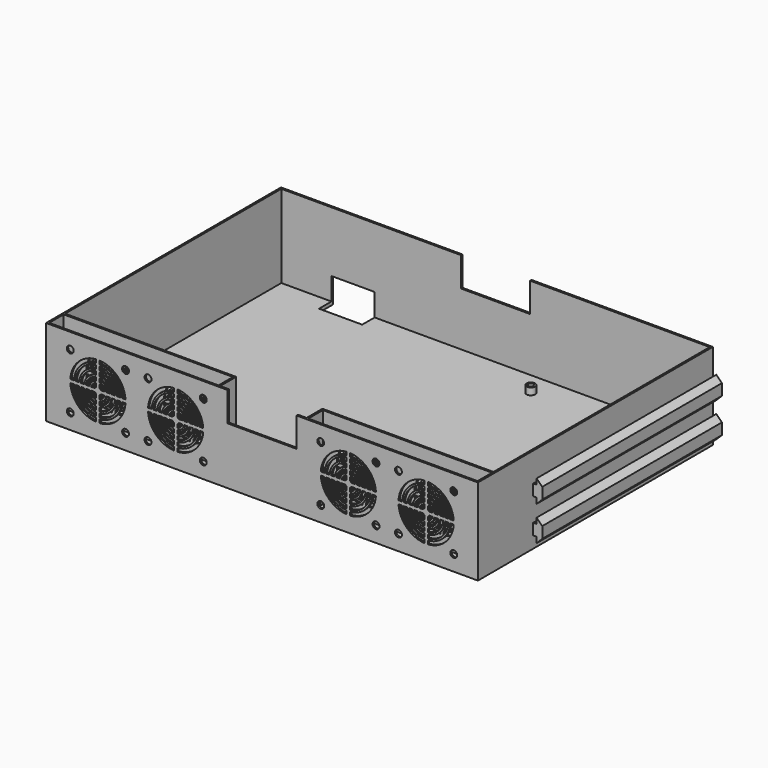
from build123d import *

# Parameters (mm, degrees)
SKETCH010_W     = 250
SKETCH010_H     = 170
PAD_DEPTH       = 2
SKETCH011_W     = 250
SKETCH011_H     = 170
SKETCH011_W_2   = 98
SKETCH011_H_2   = 10.5
PAD001_DEPTH    = 50
PAD002_DEPTH    = 130
SKETCH018_W     = 40
SKETCH018_H     = 17
POCKET_DEPTH    = 170.001
SKETCH019_R     = 2
POCKET001_DEPTH = 13.5
SKETCH020_W     = 8
SKETCH020_H     = 10
POCKET002_DEPTH = 1
SKETCH016_R     = 2.5
PAD003_DEPTH    = 4
SKETCH017_R     = 1.5
POCKET003_DEPTH = 6.001
SKETCH021_W     = 25
SKETCH021_H     = 15
POCKET004_DEPTH = 10


with BuildPart() as part:
    # Sketch010 → Pad (new body)
    with BuildSketch(Plane.XY):
        Rectangle(SKETCH010_W, SKETCH010_H)
    extrude(amount=PAD_DEPTH)

    # Sketch011 → Pad001 (join)
    with BuildSketch(Plane(origin=(0, 0, 0), x_dir=(1, 0, 0), z_dir=(0, 0, -1))):
        Rectangle(SKETCH011_W, SKETCH011_H)
        with Locations((-75, 78.75)):
            Rectangle(SKETCH011_W_2, SKETCH011_H_2, mode=Mode.SUBTRACT)
        with Locations((75, 78.75)):
            Rectangle(SKETCH011_W_2, SKETCH011_H_2, mode=Mode.SUBTRACT)
        Polygon((-124, 72.5), (-25, 72.5), (-25, 84), (25, 84), (25, 72.5), (124, 72.5), (124, -84), (-124, -84), align=None, mode=Mode.SUBTRACT)
    extrude(amount=-PAD001_DEPTH)

    # Sketch → Pad002 (join)
    with BuildSketch(Plane(origin=(0, 85, 0), x_dir=(-1, 0, 0), z_dir=(0, 1, 0))):
        Polygon((-125, 13.25), (-127, 13.25), (-127, 16.5), (-130.25, 13.25), (-130.25, 6.75), (-127, 3.5), (-127, 6.75), (-125, 6.75), align=None)
        Polygon((-125, 33.25), (-127, 33.25), (-127, 36.5), (-130.25, 33.25), (-130.25, 26.75), (-127, 23.5), (-127, 26.75), (-125, 26.75), align=None)
    pad002 = extrude(amount=-PAD002_DEPTH)

    # Mirrored: Pad002 across YZ
    add(pad002.mirror(Plane.YZ))

    # Sketch018 (on Face5 of Mirrored) → Pocket (cut, through all)
    with BuildSketch(Plane.XZ.offset(85)):
        with Locations((0, 41.5)):
            Rectangle(SKETCH018_W, SKETCH018_H)
    extrude(amount=-POCKET_DEPTH, mode=Mode.SUBTRACT)

    # Sketch019 → Pocket001 (cut)
    with BuildSketch(Plane.XZ.offset(85)):
        with Locations((79, 41)):
            Circle(SKETCH019_R)
        with Locations((111, 41)):
            Circle(SKETCH019_R)
        with Locations((111, 9)):
            Circle(SKETCH019_R)
        with Locations((79, 9)):
            Circle(SKETCH019_R)
        with Locations((34, 41)):
            Circle(SKETCH019_R)
        with Locations((66, 41)):
            Circle(SKETCH019_R)
        with Locations((66, 9)):
            Circle(SKETCH019_R)
        with Locations((34, 9)):
            Circle(SKETCH019_R)
        with BuildLine():
            ThreePointArc((79.031281, 24), (83.686292, 13.686292), (94, 9.031281))
            Line((94, 9.031281), (94, 11.03576))
            ThreePointArc((81.03576, 24), (85.100505, 15.100505), (94, 11.03576))
            Line((79.031281, 24), (81.03576, 24))
        make_face()
        with BuildLine():
            ThreePointArc((108.96424, 26), (104.899495, 34.899495), (96, 38.96424))
            Line((96, 40.968719), (96, 38.96424))
            ThreePointArc((110.968719, 26), (106.313708, 36.313708), (96, 40.968719))
            Line((108.96424, 26), (110.968719, 26))
        make_face()
        with BuildLine():
            Line((79.031281, 26), (81.03576, 26))
            ThreePointArc((94, 38.96424), (85.100505, 34.899495), (81.03576, 26))
            Line((94, 38.96424), (94, 40.968719))
            ThreePointArc((94, 40.968719), (83.686292, 36.313708), (79.031281, 26))
        make_face()
        with BuildLine():
            Line((108.96424, 24), (110.968719, 24))
            ThreePointArc((96, 9.031281), (106.313708, 13.686292), (110.968719, 24))
            Line((96, 11.03576), (96, 9.031281))
            ThreePointArc((96, 11.03576), (104.899495, 15.100505), (108.96424, 24))
        make_face()
        with BuildLine():
            ThreePointArc((94, 37.961481), (85.807612, 34.192388), (82.038519, 26))
            Line((82.038519, 26), (84.045549, 26))
            ThreePointArc((94, 35.954451), (87.221825, 32.778175), (84.045549, 26))
            Line((94, 35.954451), (94, 37.961481))
        make_face()
        with BuildLine():
            ThreePointArc((107.961481, 26), (104.192388, 34.192388), (96, 37.961481))
            Line((96, 35.954451), (96, 37.961481))
            ThreePointArc((105.954451, 26), (102.778175, 32.778175), (96, 35.954451))
            Line((105.954451, 26), (107.961481, 26))
        make_face()
        with BuildLine():
            ThreePointArc((96, 14.045549), (102.778175, 17.221825), (105.954451, 24))
            Line((105.954451, 24), (107.961481, 24))
            ThreePointArc((96, 12.038519), (104.192388, 15.807612), (107.961481, 24))
            Line((96, 12.038519), (96, 14.045549))
        make_face()
        with BuildLine():
            ThreePointArc((82.038519, 24), (85.807612, 15.807612), (94, 12.038519))
            Line((94, 12.038519), (94, 14.045549))
            ThreePointArc((84.045549, 24), (87.221825, 17.221825), (94, 14.045549))
            Line((82.038519, 24), (84.045549, 24))
        make_face()
        with BuildLine():
            ThreePointArc((94, 34.949874), (87.928932, 32.071068), (85.050126, 26))
            Line((85.050126, 26), (87.062746, 26))
            ThreePointArc((94, 32.937254), (89.343146, 30.656854), (87.062746, 26))
            Line((94, 32.937254), (94, 34.949874))
        make_face()
        with BuildLine():
            ThreePointArc((102.937254, 26), (100.656854, 30.656854), (96, 32.937254))
            Line((96, 34.949874), (96, 32.937254))
            ThreePointArc((104.949874, 26), (102.071068, 32.071068), (96, 34.949874))
            Line((102.937254, 26), (104.949874, 26))
        make_face()
        with BuildLine():
            ThreePointArc((96, 15.050126), (102.071068, 17.928932), (104.949874, 24))
            Line((102.937254, 24), (104.949874, 24))
            ThreePointArc((96, 17.062746), (100.656854, 19.343146), (102.937254, 24))
            Line((96, 15.050126), (96, 17.062746))
        make_face()
        with BuildLine():
            ThreePointArc((85.050126, 24), (87.928932, 17.928932), (94, 15.050126))
            Line((94, 15.050126), (94, 17.062746))
            ThreePointArc((87.062746, 24), (89.343146, 19.343146), (94, 17.062746))
            Line((85.050126, 24), (87.062746, 24))
        make_face()
        with BuildLine():
            ThreePointArc((94, 31.928203), (90.050253, 29.949747), (88.071797, 26))
            Line((88.071797, 26), (90.101021, 26))
            ThreePointArc((94, 29.898979), (91.464466, 28.535534), (90.101021, 26))
            Line((94, 29.898979), (94, 31.928203))
        make_face()
        with BuildLine():
            ThreePointArc((96, 20.101021), (98.535534, 21.464466), (99.898979, 24))
            Line((99.898979, 24), (101.928203, 24))
            ThreePointArc((96, 18.071797), (99.949747, 20.050253), (101.928203, 24))
            Line((96, 18.071797), (96, 20.101021))
        make_face()
        with BuildLine():
            ThreePointArc((88.071797, 24), (90.050253, 20.050253), (94, 18.071797))
            Line((94, 18.071797), (94, 20.101021))
            ThreePointArc((90.101021, 24), (91.464466, 21.464466), (94, 20.101021))
            Line((88.071797, 24), (90.101021, 24))
        make_face()
        with BuildLine():
            ThreePointArc((99.898979, 26), (98.535534, 28.535534), (96, 29.898979))
            Line((96, 31.928203), (96, 29.898979))
            ThreePointArc((101.928203, 26), (99.949747, 29.949747), (96, 31.928203))
            Line((99.898979, 26), (101.928203, 26))
        make_face()
        with BuildLine():
            ThreePointArc((94, 28.872983), (92.171573, 27.828427), (91.127017, 26))
            Line((91.127017, 26), (93.267949, 26))
            ThreePointArc((94, 26.732051), (93.585786, 26.414214), (93.267949, 26))
            Line((94, 26.732051), (94, 28.872983))
        make_face()
        with BuildLine():
            ThreePointArc((91.127017, 24), (92.171573, 22.171573), (94, 21.127017))
            Line((94, 23.267949), (94, 21.127017))
            ThreePointArc((93.267949, 24), (93.585786, 23.585786), (94, 23.267949))
            Line((91.127017, 24), (93.267949, 24))
        make_face()
        with BuildLine():
            ThreePointArc((96, 21.127017), (97.828427, 22.171573), (98.872983, 24))
            Line((98.872983, 24), (96.732051, 24))
            ThreePointArc((96, 23.267949), (96.414214, 23.585786), (96.732051, 24))
            Line((96, 21.127017), (96, 23.267949))
        make_face()
        with BuildLine():
            ThreePointArc((98.872983, 26), (97.828427, 27.828427), (96, 28.872983))
            Line((96, 28.872983), (96, 26.732051))
            ThreePointArc((96.732051, 26), (96.414214, 26.414214), (96, 26.732051))
            Line((96.732051, 26), (98.872983, 26))
        make_face()
        with BuildLine():
            ThreePointArc((34.031281, 24), (38.686292, 13.686292), (49, 9.031281))
            Line((49, 9.031281), (49, 11.03576))
            ThreePointArc((36.03576, 24), (40.100505, 15.100505), (49, 11.03576))
            Line((34.031281, 24), (36.03576, 24))
        make_face()
        with BuildLine():
            ThreePointArc((63.96424, 26), (59.899495, 34.899495), (51, 38.96424))
            Line((51, 40.968719), (51, 38.96424))
            ThreePointArc((65.968719, 26), (61.313708, 36.313708), (51, 40.968719))
            Line((63.96424, 26), (65.968719, 26))
        make_face()
        with BuildLine():
            Line((34.031281, 26), (36.03576, 26))
            ThreePointArc((49, 38.96424), (40.100505, 34.899495), (36.03576, 26))
            Line((49, 38.96424), (49, 40.968719))
            ThreePointArc((49, 40.968719), (38.686292, 36.313708), (34.031281, 26))
        make_face()
        with BuildLine():
            Line((63.96424, 24), (65.968719, 24))
            ThreePointArc((51, 9.031281), (61.313708, 13.686292), (65.968719, 24))
            Line((51, 11.03576), (51, 9.031281))
            ThreePointArc((51, 11.03576), (59.899495, 15.100505), (63.96424, 24))
        make_face()
        with BuildLine():
            ThreePointArc((49, 37.961481), (40.807612, 34.192388), (37.038519, 26))
            Line((37.038519, 26), (39.045549, 26))
            ThreePointArc((49, 35.954451), (42.221825, 32.778175), (39.045549, 26))
            Line((49, 35.954451), (49, 37.961481))
        make_face()
        with BuildLine():
            ThreePointArc((62.961481, 26), (59.192388, 34.192388), (51, 37.961481))
            Line((51, 35.954451), (51, 37.961481))
            ThreePointArc((60.954451, 26), (57.778175, 32.778175), (51, 35.954451))
            Line((60.954451, 26), (62.961481, 26))
        make_face()
        with BuildLine():
            ThreePointArc((51, 14.045549), (57.778175, 17.221825), (60.954451, 24))
            Line((60.954451, 24), (62.961481, 24))
            ThreePointArc((51, 12.038519), (59.192388, 15.807612), (62.961481, 24))
            Line((51, 12.038519), (51, 14.045549))
        make_face()
        with BuildLine():
            ThreePointArc((37.038519, 24), (40.807612, 15.807612), (49, 12.038519))
            Line((49, 12.038519), (49, 14.045549))
            ThreePointArc((39.045549, 24), (42.221825, 17.221825), (49, 14.045549))
            Line((37.038519, 24), (39.045549, 24))
        make_face()
        with BuildLine():
            ThreePointArc((49, 34.949874), (42.928932, 32.071068), (40.050126, 26))
            Line((40.050126, 26), (42.062746, 26))
            ThreePointArc((49, 32.937254), (44.343146, 30.656854), (42.062746, 26))
            Line((49, 32.937254), (49, 34.949874))
        make_face()
        with BuildLine():
            ThreePointArc((57.937254, 26), (55.656854, 30.656854), (51, 32.937254))
            Line((51, 34.949874), (51, 32.937254))
            ThreePointArc((59.949874, 26), (57.071068, 32.071068), (51, 34.949874))
            Line((57.937254, 26), (59.949874, 26))
        make_face()
        with BuildLine():
            ThreePointArc((51, 15.050126), (57.071068, 17.928932), (59.949874, 24))
            Line((57.937254, 24), (59.949874, 24))
            ThreePointArc((51, 17.062746), (55.656854, 19.343146), (57.937254, 24))
            Line((51, 15.050126), (51, 17.062746))
        make_face()
        with BuildLine():
            ThreePointArc((40.050126, 24), (42.928932, 17.928932), (49, 15.050126))
            Line((49, 15.050126), (49, 17.062746))
            ThreePointArc((42.062746, 24), (44.343146, 19.343146), (49, 17.062746))
            Line((40.050126, 24), (42.062746, 24))
        make_face()
        with BuildLine():
            ThreePointArc((49, 31.928203), (45.050253, 29.949747), (43.071797, 26))
            Line((43.071797, 26), (45.101021, 26))
            ThreePointArc((49, 29.898979), (46.464466, 28.535534), (45.101021, 26))
            Line((49, 29.898979), (49, 31.928203))
        make_face()
        with BuildLine():
            ThreePointArc((51, 20.101021), (53.535534, 21.464466), (54.898979, 24))
            Line((54.898979, 24), (56.928203, 24))
            ThreePointArc((51, 18.071797), (54.949747, 20.050253), (56.928203, 24))
            Line((51, 18.071797), (51, 20.101021))
        make_face()
        with BuildLine():
            ThreePointArc((43.071797, 24), (45.050253, 20.050253), (49, 18.071797))
            Line((49, 18.071797), (49, 20.101021))
            ThreePointArc((45.101021, 24), (46.464466, 21.464466), (49, 20.101021))
            Line((43.071797, 24), (45.101021, 24))
        make_face()
        with BuildLine():
            ThreePointArc((54.898979, 26), (53.535534, 28.535534), (51, 29.898979))
            Line((51, 31.928203), (51, 29.898979))
            ThreePointArc((56.928203, 26), (54.949747, 29.949747), (51, 31.928203))
            Line((54.898979, 26), (56.928203, 26))
        make_face()
        with BuildLine():
            ThreePointArc((49, 28.872983), (47.171573, 27.828427), (46.127017, 26))
            Line((46.127017, 26), (48.267949, 26))
            ThreePointArc((49, 26.732051), (48.585786, 26.414214), (48.267949, 26))
            Line((49, 26.732051), (49, 28.872983))
        make_face()
        with BuildLine():
            ThreePointArc((46.127017, 24), (47.171573, 22.171573), (49, 21.127017))
            Line((49, 23.267949), (49, 21.127017))
            ThreePointArc((48.267949, 24), (48.585786, 23.585786), (49, 23.267949))
            Line((46.127017, 24), (48.267949, 24))
        make_face()
        with BuildLine():
            ThreePointArc((51, 21.127017), (52.828427, 22.171573), (53.872983, 24))
            Line((53.872983, 24), (51.732051, 24))
            ThreePointArc((51, 23.267949), (51.414214, 23.585786), (51.732051, 24))
            Line((51, 21.127017), (51, 23.267949))
        make_face()
        with BuildLine():
            ThreePointArc((53.872983, 26), (52.828427, 27.828427), (51, 28.872983))
            Line((51, 28.872983), (51, 26.732051))
            ThreePointArc((51.732051, 26), (51.414214, 26.414214), (51, 26.732051))
            Line((51.732051, 26), (53.872983, 26))
        make_face()
    pocket001 = extrude(amount=-POCKET001_DEPTH, mode=Mode.SUBTRACT)

    # Mirrored001: Pocket001 across YZ
    add(pocket001.mirror(Plane.YZ), mode=Mode.SUBTRACT)

    # Sketch020 (on Face376 of Mirrored001) → Pocket002 (cut)
    with BuildSketch(Plane(origin=(25, 0, 0), x_dir=(0, -1, 0), z_dir=(-1, 0, 0))):
        with Locations((79, 7)):
            Rectangle(SKETCH020_W, SKETCH020_H)
    pocket002 = extrude(amount=-POCKET002_DEPTH, mode=Mode.SUBTRACT)

    # Mirrored002: Pocket002 across YZ
    add(pocket002.mirror(Plane.YZ), mode=Mode.SUBTRACT)

    # Sketch016 (on Face409 of Mirrored002) → Pad003 (join)
    with BuildSketch(Plane.XY.offset(2)):
        with Locations((31.25, 70.5)):
            Circle(SKETCH016_R)
        with Locations((117.75, 70.5)):
            Circle(SKETCH016_R)
        with Locations((117.75, -67.5)):
            Circle(SKETCH016_R)
        with Locations((31.25, -67.5)):
            Circle(SKETCH016_R)
    extrude(amount=PAD003_DEPTH)

    # Sketch017 (on Face760 of Pad003) → Pocket003 (cut, through all)
    with BuildSketch(Plane.XY.offset(6)):
        with Locations((31.25, 70.5)):
            Circle(SKETCH017_R)
        with Locations((117.75, 70.5)):
            Circle(SKETCH017_R)
        with Locations((31.25, -67.5)):
            Circle(SKETCH017_R)
        with Locations((117.75, -67.5)):
            Circle(SKETCH017_R)
    extrude(amount=-POCKET003_DEPTH, mode=Mode.SUBTRACT)

    # Sketch021 (on Face353 of Pocket003) → Pocket004 (cut)
    with BuildSketch(Plane(origin=(0, 85, 0), x_dir=(-1, 0, 0), z_dir=(0, 1, 0))):
        with Locations((82.5, 7.5)):
            Rectangle(SKETCH021_W, SKETCH021_H)
    extrude(amount=-POCKET004_DEPTH, mode=Mode.SUBTRACT)


with BuildPart() as part_1:
    # Body001 placement: moved
    add(part.part.moved(Location((-163, 0, 0))))


solid = part_1.part
